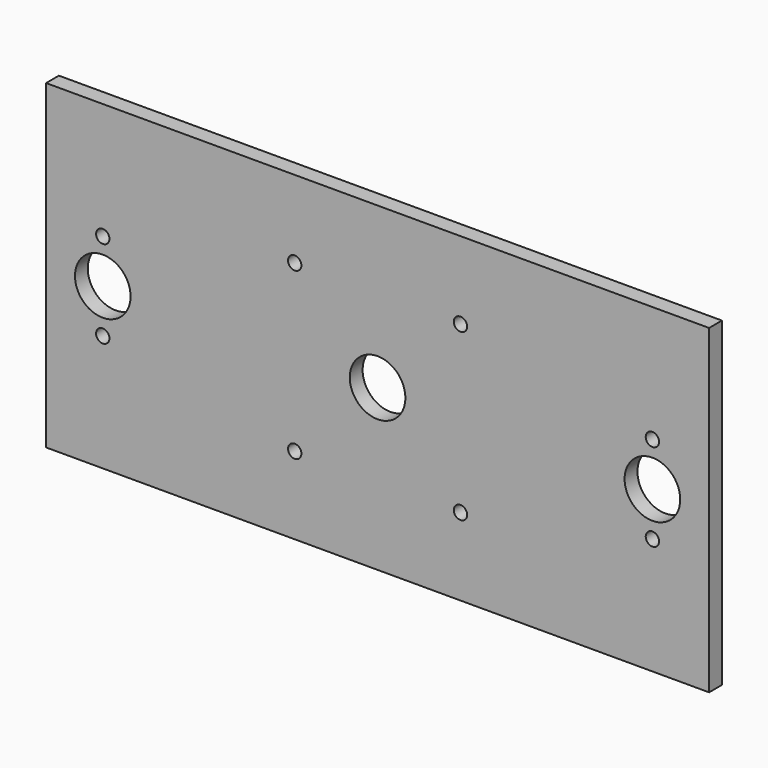
from build123d import *

# Parameters (mm, degrees)
F0_W     = 124
F0_H     = 60
F0_R     = 1.25
F0_R_2   = 5.2
F1_DEPTH = 3


with BuildPart() as f1:
    # F0 (on Front) → F1 (new body)
    with BuildSketch(Plane.XZ):
        Rectangle(F0_W, F0_H)
        with Locations((-15.5, -15.5)):
            Circle(F0_R, mode=Mode.SUBTRACT)
        with Locations((-51.4, -8.2)):
            Circle(F0_R, mode=Mode.SUBTRACT)
        with Locations((15.5, -15.5)):
            Circle(F0_R, mode=Mode.SUBTRACT)
        with Locations((51.4, -8.2)):
            Circle(F0_R, mode=Mode.SUBTRACT)
        with Locations((-51.4, 0)):
            Circle(F0_R_2, mode=Mode.SUBTRACT)
        with Locations((-51.4, 8.2)):
            Circle(F0_R, mode=Mode.SUBTRACT)
        with Locations((-15.5, 15.5)):
            Circle(F0_R, mode=Mode.SUBTRACT)
        Circle(F0_R_2, mode=Mode.SUBTRACT)
        with Locations((51.4, 0)):
            Circle(F0_R_2, mode=Mode.SUBTRACT)
        with Locations((51.4, 8.2)):
            Circle(F0_R, mode=Mode.SUBTRACT)
        with Locations((15.5, 15.5)):
            Circle(F0_R, mode=Mode.SUBTRACT)
    extrude(amount=F1_DEPTH)


solid = f1.part
